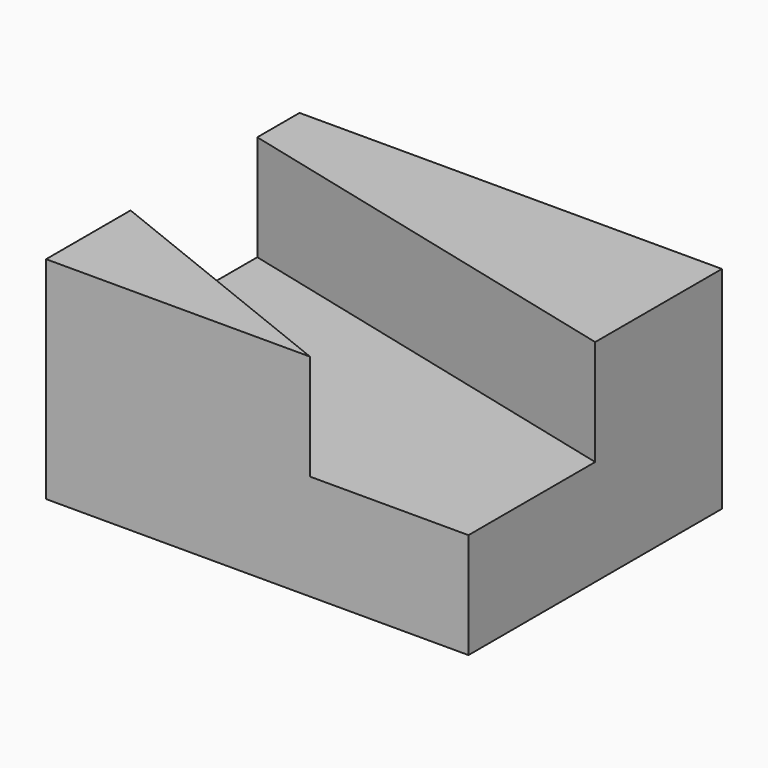
from build123d import *

# Parameters (mm, degrees)
F0_W     = 50.8
F0_H     = 38.1
F1_DEPTH = 25.4
F4_DEPTH = 12.7


with BuildPart() as f1:
    # F0 (on Top) → F1 (new body)
    with BuildSketch(Plane.XY):
        with Locations((25.4, 19.05)):
            Rectangle(F0_W, F0_H)
    extrude(amount=F1_DEPTH)

    # F3 (on face) → F4 (cut)
    with BuildSketch(Plane.XY.offset(25.4)):
        Polygon((50.8, 0), (50.8, 19.05), (0, 31.75), (0, 12.7), (31.75, 0), align=None)
    extrude(amount=-F4_DEPTH, mode=Mode.SUBTRACT)


solid = f1.part
